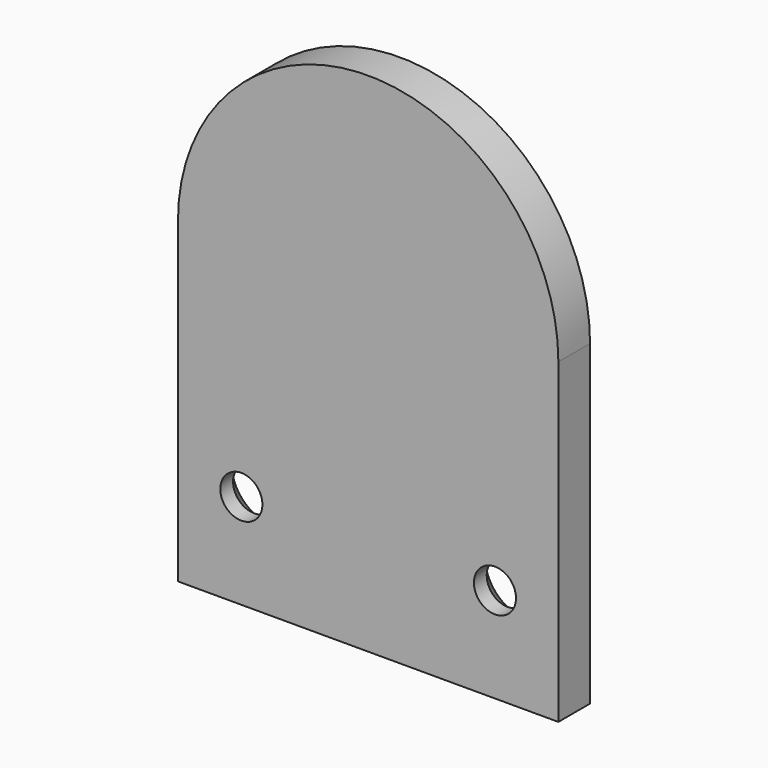
from build123d import *

# Parameters (mm, degrees)
F1_DEPTH       = 7.9375
F2_D           = 8.4328
F2_CSINK_D     = 16.6624
F2_CSINK_ANGLE = 82


with BuildPart() as f1:
    # F0 (on Front) → F1 (new body)
    with BuildSketch(Plane.XZ):
        with BuildLine():
            Line((38.1, -63.5), (38.1, 0))
            ThreePointArc((38.1, 0), (0, 38.1), (-38.1, 0))
            Line((-38.1, 0), (-38.1, -63.5))
            Line((-38.1, -63.5), (38.1, -63.5))
        make_face()
    extrude(amount=F1_DEPTH)

    # F2 (through all)
    with Locations(Plane(origin=(0, 0, 0), x_dir=(1, 0, 0), z_dir=(0, 1, 0))):
        with Locations((-25.4, 44.45), (25.4, 44.45)):
            CounterSinkHole(F2_D / 2, F2_CSINK_D / 2, counter_sink_angle=F2_CSINK_ANGLE)


solid = f1.part
